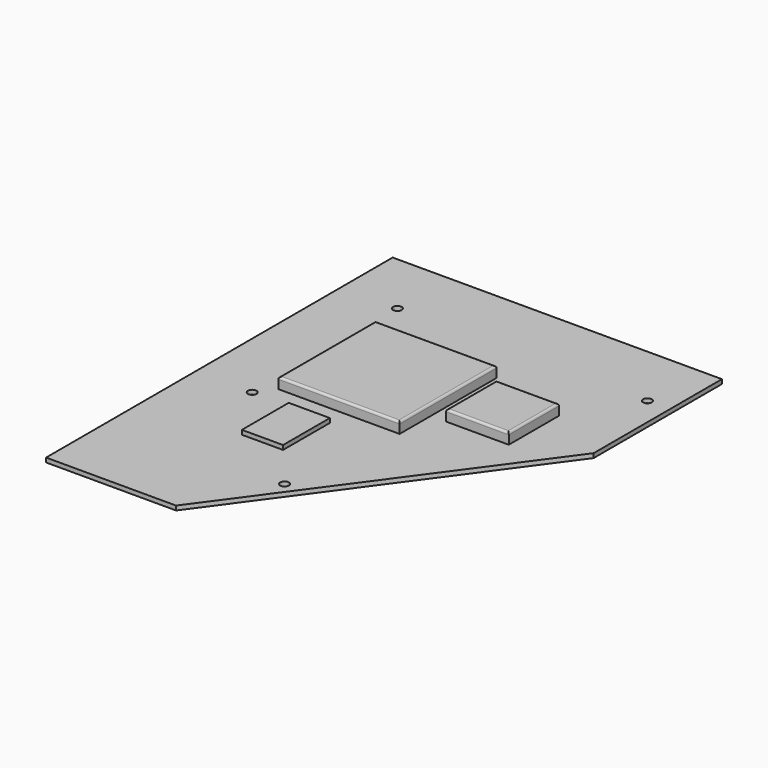
from build123d import *

# Parameters (mm, degrees)
F1_DEPTH = 1
F2_R     = 1
F3_DEPTH = 2
F4_W     = 28
F4_H     = 28
F4_W_2   = 14.5
F4_H_2   = 14.5
F5_DEPTH = 2.5
F6_R     = 0.5
F7_W     = 9.5
F7_H     = 13.5
F8_DEPTH = 1


with BuildPart() as f1:
    # F0 (on Top) → F1 (new body)
    with BuildSketch(Plane.XY):
        Polygon((-41.764005, 41.031135), (-41.764005, -58.968865), (-11.764005, -58.968865), (34.235995, 4.031135), (34.235995, 41.031135), align=None)
    extrude(amount=F1_DEPTH)

    # F2 (on face) → F3 (cut)
    with BuildSketch(Plane.XY.offset(1)):
        with Locations((-28.664005, 26.031135)):
            Circle(F2_R)
        with Locations((-28.664005, -15.868865)):
            Circle(F2_R)
        with Locations((29.035995, 26.031135)):
            Circle(F2_R)
        with Locations((-1.764005, -40.168865)):
            Circle(F2_R)
    extrude(amount=-F3_DEPTH, mode=Mode.SUBTRACT)

    # F4 (on face) → F5 (join)
    with BuildSketch(Plane.XY.offset(1)):
        with Locations((-11.764005, 2.031135)):
            Rectangle(F4_W, F4_H)
        with Locations((12.985995, 4.281135)):
            Rectangle(F4_W_2, F4_H_2)
    extrude(amount=F5_DEPTH)

    # F6
    f6_edges = [f1.edges().sort_by_distance(p)[0] for p in [
        (-11.764005, -11.968865, 3.5),
        (-25.764005, 2.031135, 3.5),
        (-11.764005, 16.031135, 3.5),
        (2.235995, 2.031135, 3.5),
        (12.985995, 11.531135, 3.5),
        (5.735995, 4.281135, 3.5),
        (12.985995, -2.968865, 3.5),
        (20.235995, 4.281135, 3.5),
    ]]
    fillet(f6_edges, radius=F6_R)

    # F7 (on face) → F8 (join)
    with BuildSketch(Plane.XY.offset(1)):
        with Locations((-15.014005, -23.218865)):
            Rectangle(F7_W, F7_H)
    extrude(amount=F8_DEPTH)


solid = f1.part
